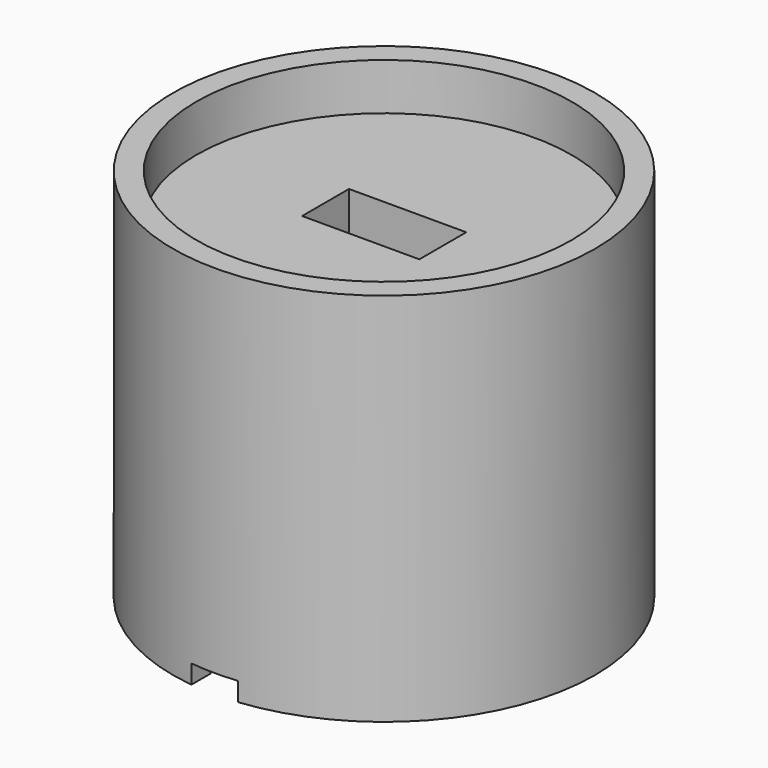
from build123d import *

# Parameters (mm, degrees)
F0_R     = 57.15
F1_DEPTH = 88.9
F2_R     = 50.8
F3_DEPTH = 76.2
F4_W     = 31.75
F4_H     = 15.875
F5_DEPTH = 12.7
F6_R     = 57.15
F6_R_2   = 50.8
F7_DEPTH = 12.7
F9_DEPTH = 5.08


with BuildPart() as f1:
    # F0 (on Top) → F1 (new body)
    with BuildSketch(Plane.XY):
        with Locations((-87.3053744435, 47.6011708379)):
            Circle(F0_R)
    extrude(amount=F1_DEPTH)

    # F2 (on face) → F3 (cut)
    with BuildSketch(Plane(origin=(0, 0, 0), x_dir=(1, 0, 0), z_dir=(0, 0, -1))):
        with Locations((-87.3053744435, -47.6011708379)):
            Circle(F2_R)
    extrude(amount=-F3_DEPTH, mode=Mode.SUBTRACT)

    # F4 (on face) → F5 (cut)
    with BuildSketch(Plane.XY.offset(88.9)):
        with Locations((-87.2800468532, 47.6297885038)):
            Rectangle(F4_W, F4_H)
    extrude(amount=-F5_DEPTH, mode=Mode.SUBTRACT)

    # F6 (on face) → F7 (join)
    with BuildSketch(Plane.XY.offset(88.9)):
        with Locations((-87.3053744435, 47.6011708379)):
            Circle(F6_R)
        with Locations((-87.3053744435, 47.6011708379)):
            Circle(F6_R_2, mode=Mode.SUBTRACT)
    extrude(amount=F7_DEPTH)

    # F8 (on face) → F9 (cut)
    with BuildSketch(Plane(origin=(0, 0, 0), x_dir=(1, 0, 0), z_dir=(0, 0, -1))):
        with BuildLine():
            ThreePointArc((-81.3538346767, 9.2380908956), (-87.7063174424, 9.5474227118), (-94.0538346767, 9.1489902586))
            Line((-94.0538346767, 9.1489902586), (-94.0538346767, 2.7485886897))
            ThreePointArc((-94.0538346767, 2.7485886897), (-87.7069848083, 3.1972416286), (-81.3538346767, 2.8489944186))
            Line((-81.3538346767, 2.8489944186), (-81.3538346767, 9.2380908956))
        make_face()
        with BuildLine():
            ThreePointArc((-81.3538346767, 2.8489944186), (-87.7069848083, 3.1972416286), (-94.0538346767, 2.7485886897))
            Line((-94.0538346767, 2.7485886897), (-94.0538346767, 0))
            Line((-94.0538346767, 0), (-81.3538346767, 0))
            Line((-81.3538346767, 0), (-81.3538346767, 2.8489944186))
        make_face()
    extrude(amount=-F9_DEPTH, mode=Mode.SUBTRACT)


solid = f1.part
